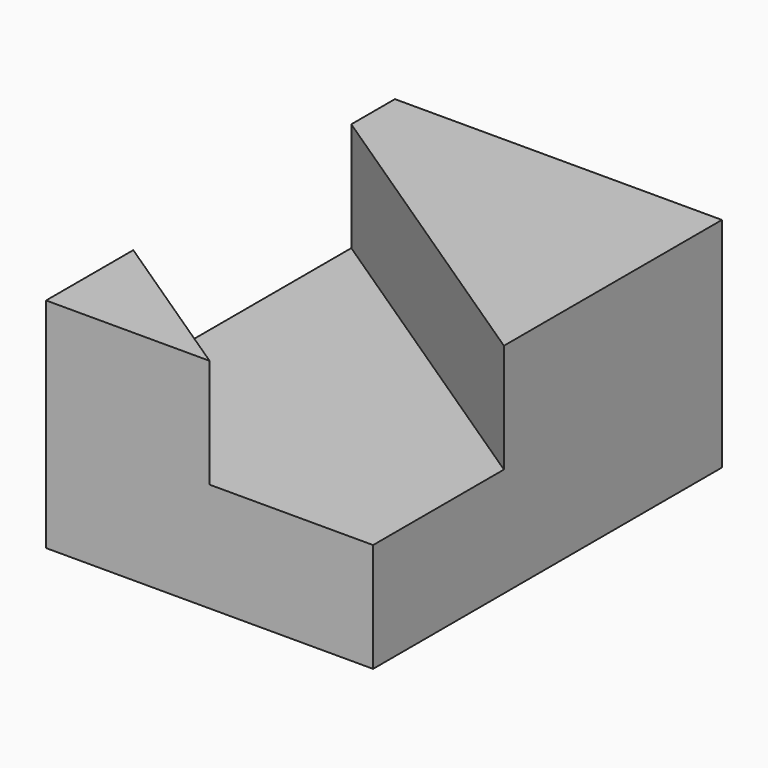
from build123d import *

# Parameters (mm, degrees)
F0_W     = 38.1
F0_H     = 12.7
F1_DEPTH = 50.8
F3_DEPTH = 12.7
F5_DEPTH = 12.7


with BuildPart() as f1:
    # F0 (on Front) → F1 (new body)
    with BuildSketch(Plane.XZ):
        with Locations((-2.63089, 21.521232)):
            Rectangle(F0_W, F0_H)
    extrude(amount=F1_DEPTH)

    # F2 (on face) → F3 (join)
    with BuildSketch(Plane.XY.offset(27.871232)):
        Polygon((-21.68089, -38.1), (-21.68089, -50.8), (-2.63089, -50.8), align=None)
    extrude(amount=F3_DEPTH)

    # F4 (on face) → F5 (join)
    with BuildSketch(Plane.XY.offset(27.871232)):
        Polygon((16.41911, -31.75), (16.41911, 0), (-21.68089, 0), (-21.68089, -6.35), align=None)
    extrude(amount=F5_DEPTH)


solid = f1.part
